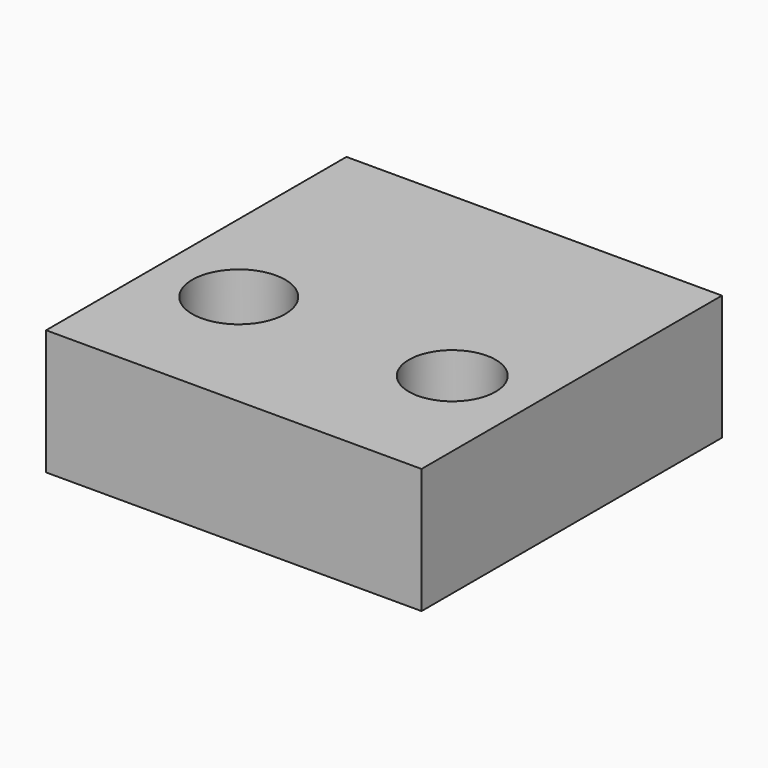
from build123d import *

# Parameters (mm, degrees)
F0_W     = 76.2
F0_H     = 27.3757269502
F0_H_2   = 48.8242730498
F0_R     = 9.4325201181
F0_R_2   = 8.8008195624
F1_DEPTH = 25.4


with BuildPart() as f1:
    # F0 (on Top) → F1 (new body)
    with BuildSketch(Plane.XY):
        with Locations((-8.3431932092, 28.7107112765)):
            Rectangle(F0_W, F0_H)
        with Locations((-8.3431932092, -9.3892887235)):
            Rectangle(F0_W, F0_H_2)
        with Locations((-29.7568067908, -5.7780258358)):
            Circle(F0_R, mode=Mode.SUBTRACT)
        with Locations((13.5783478618, -5.7780258358)):
            Circle(F0_R_2, mode=Mode.SUBTRACT)
    extrude(amount=F1_DEPTH)


solid = f1.part
